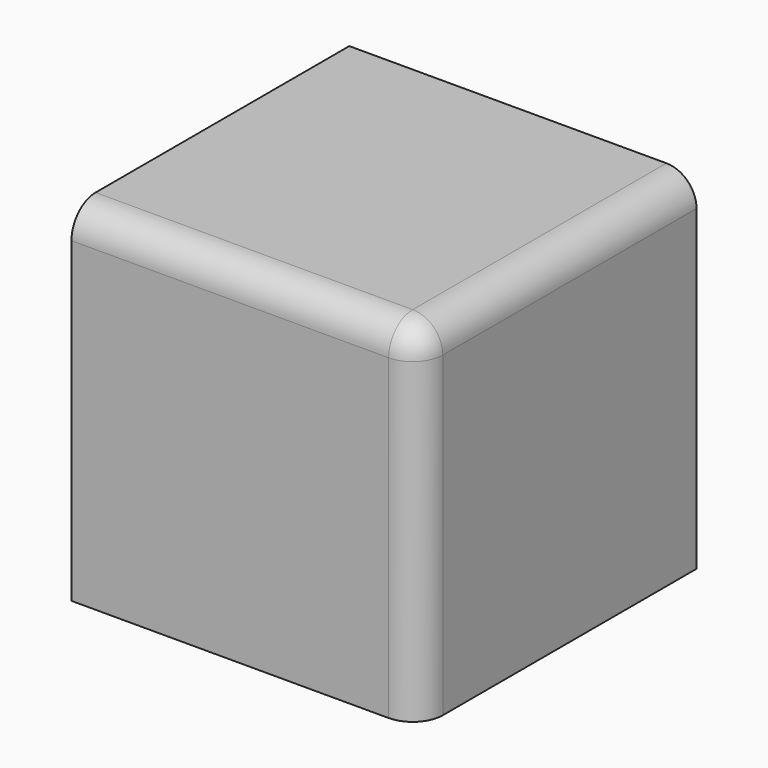
from build123d import *

# Parameters (mm, degrees)
SKETCH055_W  = 41.021
SKETCH055_H  = 41.021
PAD045_DEPTH = 41.021
SKETCH056_W  = 25.908
SKETCH056_H  = 25.908
PAD046_DEPTH = 6.35
FILLET_R     = 3.556
FILLET001_R  = 3.556


with BuildPart() as part:
    # Sketch055 → Pad045 (new body)
    with BuildSketch(Plane.XZ):
        with Locations((20.5105, 20.5105)):
            Rectangle(SKETCH055_W, SKETCH055_H)
    extrude(amount=PAD045_DEPTH)

    # Sketch056 (on Face3 of Pad045) → Pad046 (join)
    with BuildSketch(Plane(origin=(0, 0, 0), x_dir=(1, 0, 0), z_dir=(0, 0, -1))):
        with Locations((20.507403, 20.507403)):
            Rectangle(SKETCH056_W, SKETCH056_H)
    extrude(amount=PAD046_DEPTH)

    # Fillet
    fillet_edges = [part.edges().sort_by_distance(p)[0] for p in [
        (7.553403, -20.507403, -6.35),
        (20.507403, -33.461403, -6.35),
        (20.507403, -7.553403, -6.35),
        (33.461403, -20.507403, -6.35),
    ]]
    fillet(fillet_edges, radius=FILLET_R)

    # Fillet001
    fillet001_edges = [part.edges().sort_by_distance(p)[0] for p in [
        (20.5105, -41.021, 41.021),
        (41.021, -41.021, 20.5105),
        (41.021, -20.5105, 41.021),
    ]]
    fillet(fillet001_edges, radius=FILLET001_R)


with BuildPart() as part_1:
    # Body039 placement: moved
    add(part.part.moved(Location((-41.1226, -0.0508, 2459.1772))))


solid = part_1.part
